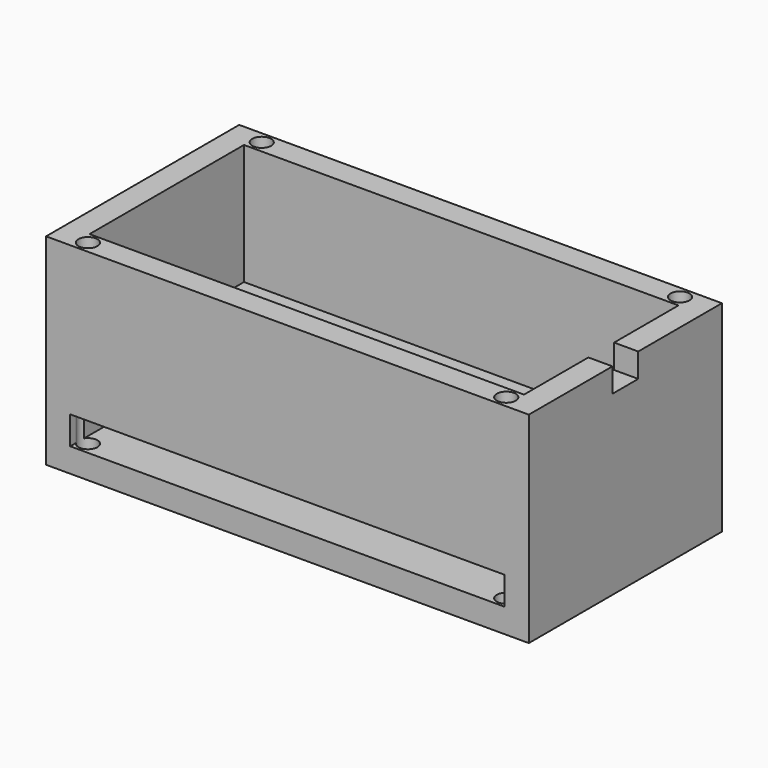
from build123d import *

# Parameters (mm, degrees)
F0_W     = 60
F0_H     = 30
F1_DEPTH = 25
F2_W     = 54
F2_H     = 3.5
F3_DEPTH = 30.001
F4_W     = 54
F4_H     = 24
F5_DEPTH = 15
F6_W     = 3
F6_H     = 4
F7_DEPTH = 3
F8_R     = 1.177089
F9_DEPTH = 25.001


with BuildPart() as f1:
    # F0 (on Top) → F1 (new body)
    with BuildSketch(Plane.XY):
        with Locations((-0.009455, -0.203341)):
            Rectangle(F0_W, F0_H)
    extrude(amount=F1_DEPTH)

    # F2 (on face) → F3 (cut, through all)
    with BuildSketch(Plane.XZ.offset(15.203341)):
        with Locations((-0.009455, 4.75)):
            Rectangle(F2_W, F2_H)
    extrude(amount=-F3_DEPTH, mode=Mode.SUBTRACT)

    # F4 (on face) → F5 (cut)
    with BuildSketch(Plane.XY.offset(25)):
        with Locations((-0.009455, -0.203341)):
            Rectangle(F4_W, F4_H)
    extrude(amount=-F5_DEPTH, mode=Mode.SUBTRACT)

    # F6 (on face) → F7 (cut)
    with BuildSketch(Plane.XY.offset(25)):
        with Locations((28.490545, -0.203341)):
            Rectangle(F6_W, F6_H)
    extrude(amount=-F7_DEPTH, mode=Mode.SUBTRACT)

    # F8 (on face) → F9 (cut, through all)
    with BuildSketch(Plane.XY.offset(25)):
        with Locations((25.990545, 13.288478)):
            Circle(F8_R)
        with Locations((-26.009455, 13.296659)):
            Circle(F8_R)
        with Locations((-26.009455, -13.703341)):
            Circle(F8_R)
        with Locations((25.990545, -13.703341)):
            Circle(F8_R)
    extrude(amount=-F9_DEPTH, mode=Mode.SUBTRACT)


solid = f1.part
